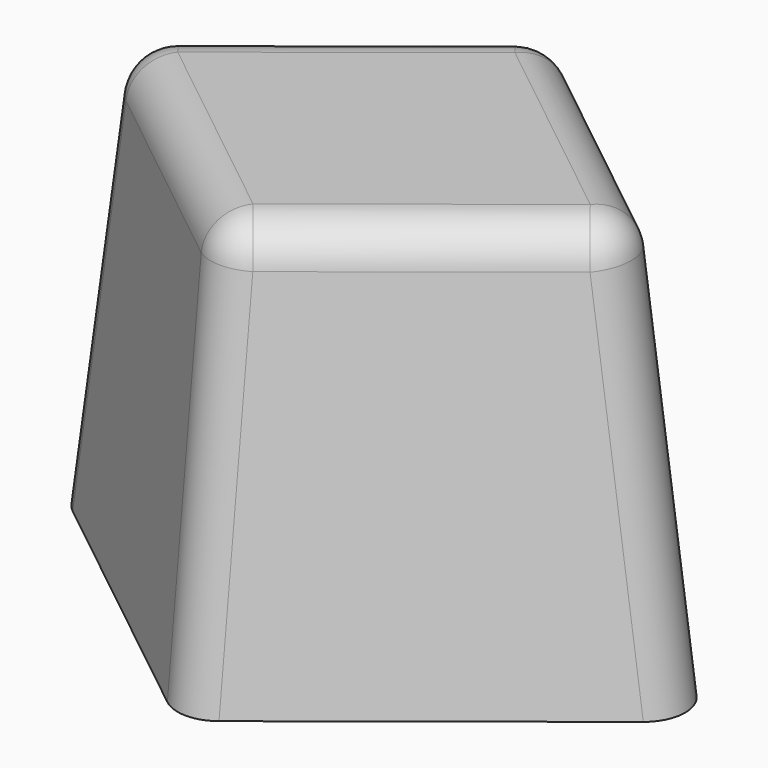
from build123d import *

# Parameters (mm, degrees)
F1_DEPTH = 20
F1_TAPER = 5
F2_R     = 2


with BuildPart() as f1:
    # F0 (on Top) → F1 (new body)
    with BuildSketch(Plane.XY):
        Polygon((15.6649419422, 0), (0, 12.4342106283), (-15.6649419422, 0), (0, -12.4342106283), align=None)
    extrude(amount=F1_DEPTH, taper=F1_TAPER)

    # F2
    f2_edges = [f1.edges().sort_by_distance(p)[0] for p in [
        (6.425246, -5.100106, 20),
        (-6.425246, -5.100106, 20),
        (-6.425246, 5.100106, 20),
        (6.425246, 5.100106, 20),
        (-14.257717, 0, 10),
        (0, 11.317211, 10.000005),
        (14.257717, 0, 10),
        (0, -11.317211, 10.000005),
    ]]
    fillet(f2_edges, radius=F2_R)


solid = f1.part
